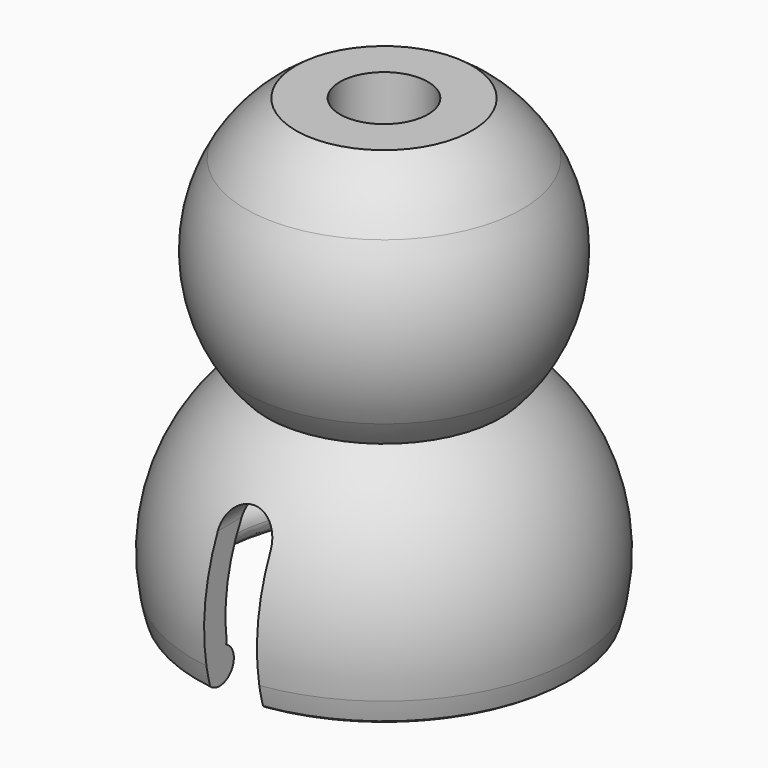
from build123d import *

# Parameters (mm, degrees)
F3_DEPTH = 25
F4_DEPTH = 25


with BuildPart() as f1:
    # F0 (on Front) → F1 (revolve)
    with BuildSketch(Plane.XZ):
        with BuildLine():
            Line((-9.4698022635, -1.4021786581), (-10.4675560918, -3.1303389822))
            ThreePointArc((-10.4675560918, -3.1303389822), (-9.7051829164, -3.2784130369), (-9.0667448452, -2.8362189465))
            ThreePointArc((-9.0667448452, -2.8362189465), (-9.2541162851, -2.1474011691), (-9.3892362686, -1.4464585345))
            ThreePointArc((-9.3892362686, -1.4464585345), (-9.429010152, -1.4233922774), (-9.4698022635, -1.4021786581))
        make_face()
        with BuildLine():
            ThreePointArc((-10.8325183142, -1.9122099708), (-10.7152925407, -2.4864645116), (-10.5676468345, -3.0536601613))
            ThreePointArc((-10.5676468345, -3.0536601613), (-10.5188111866, -3.0935786534), (-10.4675560918, -3.1303389822))
            Line((-10.4675560918, -3.1303389822), (-9.4698022635, -1.4021786581))
            ThreePointArc((-9.4698022635, -1.4021786581), (-10.2611950183, -1.36320042), (-10.8325183142, -1.9122099708))
        make_face()
        with BuildLine():
            ThreePointArc((-9.3892362686, -1.4464585345), (-9.2541162851, -2.1474011691), (-9.0667448452, -2.8362189465))
            ThreePointArc((-9.0667448452, -2.8362189465), (-8.9504785695, -2.5791074131), (-8.9106664758, -2.2997524692))
            ThreePointArc((-8.9106664758, -2.2997524692), (-9.0384766435, -1.8105849146), (-9.3892362686, -1.4464585345))
        make_face()
        with BuildLine():
            ThreePointArc((-6.6358474214, 8.773), (-10.2386218994, 4.0212711425), (-10.8325183142, -1.9122099708))
            ThreePointArc((-10.8325183142, -1.9122099708), (-10.2611950183, -1.36320042), (-9.4698022635, -1.4021786581))
            Line((-9.4698022635, -1.4021786581), (-9.4106664758, -1.2997524692))
            ThreePointArc((-9.4106664758, -1.2997524692), (-8.7192943688, 3.7714593609), (-5.4971352539, 7.748))
            ThreePointArc((-5.4971352539, 7.748), (-6.0881009683, 8.2364930251), (-6.6358474214, 8.773))
        make_face()
        with BuildLine():
            ThreePointArc((-5, 9.7979589711), (-5.8404513119, 9.3214338207), (-6.6358474214, 8.773))
            ThreePointArc((-6.6358474214, 8.773), (-6.0881009683, 8.2364930251), (-5.4971352539, 7.748))
            ThreePointArc((-5.4971352539, 7.748), (-5.2511565812, 7.9167767784), (-5, 8.0777472107))
            Line((-5, 8.0777472107), (-5, 9.7979589711))
        make_face()
        with BuildLine():
            Line((-7.8498237288, 19.6032887621), (-7.8498237288, 10.3967112379))
            Line((-7.8498237288, 10.3967112379), (-5.2734933936, 10.3967112379))
            ThreePointArc((-5.2734933936, 10.3967112379), (-7, 15), (-5.2734933936, 19.6032887621))
            Line((-5.2734933936, 19.6032887621), (-7.8498237288, 19.6032887621))
        make_face()
        with BuildLine():
            ThreePointArc((-7.8498237288, 19.6032887621), (-9.1, 15), (-7.8498237288, 10.3967112379))
            Line((-7.8498237288, 10.3967112379), (-7.8498237288, 19.6032887621))
        make_face()
        with BuildLine():
            Line((-5, 19.8989794856), (-5, 22.6032887621))
            ThreePointArc((-5, 22.6032887621), (-6.5976884183, 21.2674163365), (-7.8498237288, 19.6032887621))
            Line((-7.8498237288, 19.6032887621), (-5.2734933936, 19.6032887621))
            ThreePointArc((-5.2734933936, 19.6032887621), (-5.138873892, 19.7531016318), (-5, 19.8989794856))
        make_face()
        with BuildLine():
            Line((-2.5, 21.5383484153), (-2.5, 22.6032887621))
            Line((-2.5, 22.6032887621), (-5, 22.6032887621))
            Line((-5, 22.6032887621), (-5, 19.8989794856))
            ThreePointArc((-5, 19.8989794856), (-3.838539126, 20.8536840859), (-2.5, 21.5383484153))
        make_face()
        with BuildLine():
            Line((-5, 19.6032887621), (-2.5, 19.6032887621))
            Line((-2.5, 19.6032887621), (-2.5, 21.5383484153))
            ThreePointArc((-2.5, 21.5383484153), (-3.838539126, 20.8536840859), (-5, 19.8989794856))
            Line((-5, 19.8989794856), (-5, 19.6032887621))
        make_face()
        with BuildLine():
            ThreePointArc((-7.8498237288, 10.3967112379), (-7.2881943384, 9.5509428993), (-6.6358474214, 8.773))
            ThreePointArc((-6.6358474214, 8.773), (-5.8404513119, 9.3214338207), (-5, 9.7979589711))
            Line((-5, 9.7979589711), (-5, 10.1010205144))
            ThreePointArc((-5, 10.1010205144), (-5.138873892, 10.2468983682), (-5.2734933936, 10.3967112379))
            Line((-5.2734933936, 10.3967112379), (-7.8498237288, 10.3967112379))
        make_face()
    revolve(axis=Axis((0, 0, -3.9154533297), (0, 0, -1)))

    # F2 (on Front) → F3 (cut)
    with BuildSketch(Plane.XZ):
        with BuildLine():
            Line((-1.5, -5), (1.5, -5))
            Line((1.5, -5), (1.5, 4.5))
            ThreePointArc((1.5, 4.5), (1.0606601718, 5.5606601718), (0, 6))
            ThreePointArc((0, 6), (-1.0606601718, 5.5606601718), (-1.5, 4.5))
            Line((-1.5, 4.5), (-1.5, -5))
        make_face()
    extrude(amount=-F3_DEPTH, mode=Mode.SUBTRACT)

    # F2 (on Front) → F4 (cut)
    with BuildSketch(Plane.XZ):
        with BuildLine():
            Line((-1.5, -5), (1.5, -5))
            Line((1.5, -5), (1.5, 4.5))
            ThreePointArc((1.5, 4.5), (1.0606601718, 5.5606601718), (0, 6))
            ThreePointArc((0, 6), (-1.0606601718, 5.5606601718), (-1.5, 4.5))
            Line((-1.5, 4.5), (-1.5, -5))
        make_face()
    extrude(amount=F4_DEPTH, mode=Mode.SUBTRACT)


solid = f1.part
